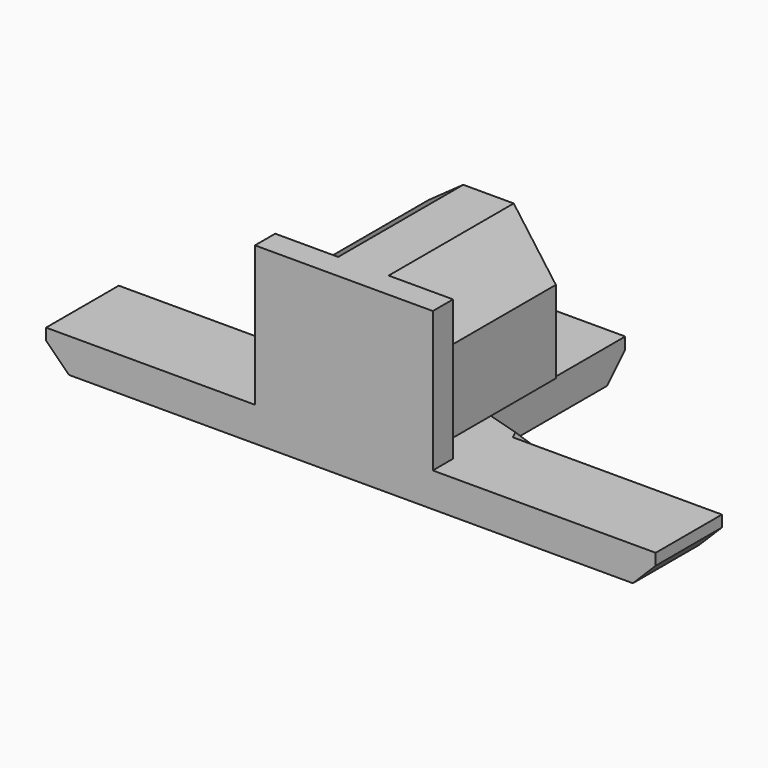
from build123d import *

# Parameters (mm, degrees)
F1_DEPTH = 7.62
F2_SIZE  = 5.08
F3_W     = 39.5873952657
F3_H     = 5.6298854761
F4_DEPTH = 31.242
F6_DEPTH = 34.798


with BuildPart() as f1:
    # F0 (on Top) → F1 (new body)
    with BuildSketch(Plane.XY):
        Polygon((-76.5226408839, 20.2266871929), (-76.5226408839, 0), (59.1854825616, 0), (59.1854825616, 18.4331871569), (18.3335505426, 18.4331871569), (15.344383195, 24.4115199894), (4.1848318651, 27.7992393821), (4.1848318651, 60.2815076709), (-21.5219929814, 60.2815076709), (-21.5219929814, 27.7992393821), (-31.2866009772, 25.4079084843), (-33.8772125542, 20.2266871929), align=None)
    extrude(amount=F1_DEPTH)

    # F2
    f2_edges = [f1.edges().sort_by_distance(p)[0] for p in [
        (-26.404297, 26.603574, 7.62),
        (-32.581907, 22.817298, 7.62),
        (9.764608, 26.10538, 7.62),
        (16.838967, 21.422354, 7.62),
        (59.185483, 9.216594, 0),
        (-76.522641, 10.113344, 0),
        (-8.668581, 60.281508, 0),
    ]]
    chamfer(f2_edges, length=F2_SIZE)

    # F3 (on face) → F4 (join)
    with BuildSketch(Plane.XY.offset(7.62)):
        with Locations((-10.2241346613, 2.814942738)):
            Rectangle(F3_W, F3_H)
    extrude(amount=F4_DEPTH)

    # F5 (on face) → F6 (join)
    with BuildSketch(Plane(origin=(0, 5.6298854761, 0), x_dir=(-1, 0, 0), z_dir=(0, 1, 0))):
        Polygon((-4.6187778935, 25.9514674544), (-4.6187778935, 7.62), (0, 7.62), (0, 23.0201836675), (4.759604577, 29.3508209288), (15.9931536764, 29.3508209288), (19.8779646307, 25.9514674544), (19.8779646307, 7.62), (23.7236581743, 7.62), (23.7236581743, 33.3591811359), (15.9931536764, 38.862), (4.759604577, 38.862), align=None)
        Polygon((0, 23.0201836675), (0, 7.62), (19.8779646307, 7.62), (19.8779646307, 25.9514674544), (15.9931536764, 29.3508209288), (4.759604577, 29.3508209288), align=None)
    extrude(amount=F6_DEPTH)


solid = f1.part
